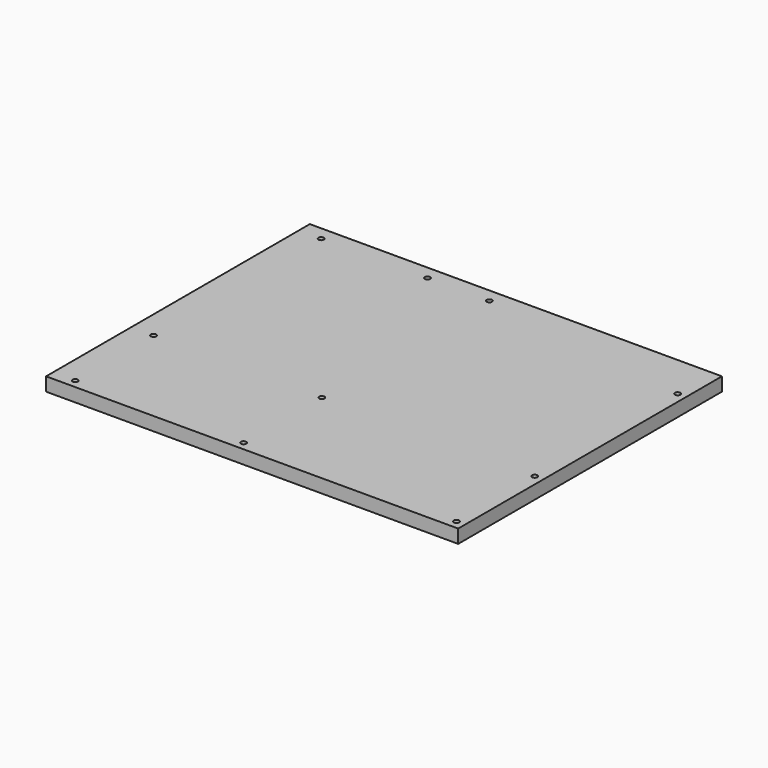
from build123d import *

# Parameters (mm, degrees)
F0_R     = 1.9812
F1_DEPTH = 10


with BuildPart() as f1:
    # F0 (on Top) → F1 (new body)
    with BuildSketch(Plane.XY):
        Polygon((-152.4, -121.92), (152.4, -121.92), (152.4, 121.92), (-135.89, 121.92), (-152.4, 121.92), align=None)
        with Locations((-135.89, -115.57)):
            Circle(F0_R, mode=Mode.SUBTRACT)
        with BuildLine():
            ThreePointArc((-9.4488, -115.57), (-11.43, -117.5512), (-13.4112, -115.57))
            ThreePointArc((-13.4112, -115.57), (-11.43, -113.5888), (-9.4488, -115.57))
        make_face(mode=Mode.SUBTRACT)
        with Locations((-135.89, -43.18)):
            Circle(F0_R, mode=Mode.SUBTRACT)
        with Locations((-11.43, -43.18)):
            Circle(F0_R, mode=Mode.SUBTRACT)
        with BuildLine():
            ThreePointArc((148.0312, -115.57), (146.05, -117.5512), (144.0688, -115.57))
            ThreePointArc((144.0688, -115.57), (146.05, -113.5888), (148.0312, -115.57))
        make_face(mode=Mode.SUBTRACT)
        with Locations((146.05, -43.18)):
            Circle(F0_R, mode=Mode.SUBTRACT)
        with Locations((-135.89, 111.76)):
            Circle(F0_R, mode=Mode.SUBTRACT)
        with Locations((-57.15, 111.76)):
            Circle(F0_R, mode=Mode.SUBTRACT)
        with Locations((-11.43, 111.76)):
            Circle(F0_R, mode=Mode.SUBTRACT)
        with Locations((146.05, 88.9)):
            Circle(F0_R, mode=Mode.SUBTRACT)
    extrude(amount=F1_DEPTH)


solid = f1.part
